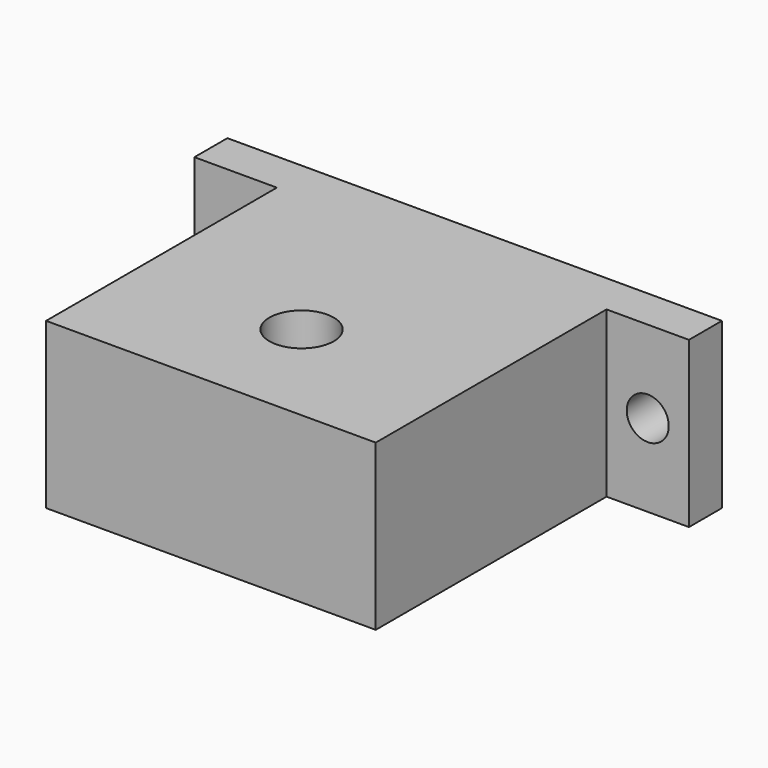
from build123d import *

# Parameters (mm, degrees)
F1_DEPTH = 25.4
F4_R     = 3.2385
F5_DEPTH = 25.4
F3_R     = 3.2385
F6_DEPTH = 25.4
F7_R     = 4.953
F8_DEPTH = 25.4


with BuildPart() as f1:
    # F0 (on Top) → F1 (new body)
    with BuildSketch(Plane.XY):
        Polygon((76.2, 0), (0, 0), (0, -6.35), (12.703011, -6.35), (12.703011, -50.8), (63.5, -50.8), (63.5, -6.35), (76.2, -6.35), align=None)
    extrude(amount=F1_DEPTH)

    # F4 (on face) → F5 (cut)
    with BuildSketch(Plane.XZ.offset(6.35)):
        with Locations((6.35, 12.7)):
            Circle(F4_R)
    extrude(amount=-F5_DEPTH, mode=Mode.SUBTRACT)

    # F3 (on face) → F6 (cut)
    with BuildSketch(Plane.XZ.offset(6.35)):
        with Locations((69.85, 12.7)):
            Circle(F3_R)
    extrude(amount=-F6_DEPTH, mode=Mode.SUBTRACT)

    # F7 (on face) → F8 (cut)
    with BuildSketch(Plane.XY.offset(25.4)):
        with Locations((38.103011, -33.3375)):
            Circle(F7_R)
    extrude(amount=-F8_DEPTH, mode=Mode.SUBTRACT)


solid = f1.part
